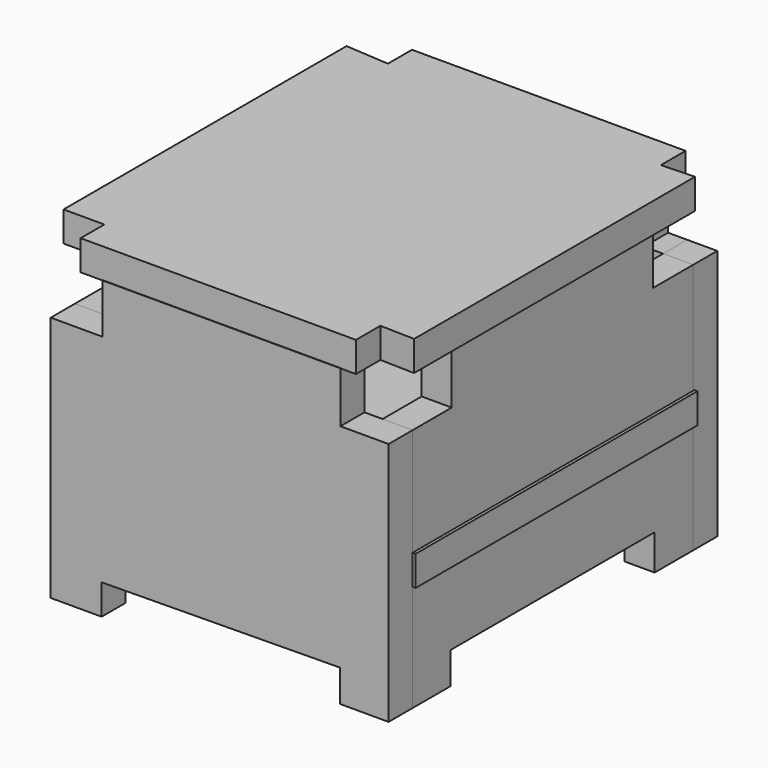
from build123d import *

# Parameters (mm, degrees)
F1_DEPTH  = 12
F3_DEPTH  = 12
F5_DEPTH  = 12
F6_DEPTH  = 12
F8_DEPTH  = 12
F9_DEPTH  = 12
F11_DEPTH = 12
F12_W     = 102.175297
F12_H     = 12
F13_DEPTH = 12


with BuildPart() as f1:
    # F0 (on Front) → F1 (new body)
    with BuildSketch(Plane.XZ):
        Polygon((-40.960394, 43.595516), (-40.960394, -54.856028), (-20.657198, -54.856028), (-20.657198, -42.756835), (74.503601, -41.788211), (74.503601, -54.560725), (93.829302, -54.560725), (93.829302, 43.038404), (74.608948, 43.038404), (74.608948, 63.372989), (-20.378642, 63.372989), (-20.378642, 43.595516), align=None)
    extrude(amount=F1_DEPTH)


with BuildPart() as f3:
    # F2 (on face) → F3 (new body)
    with BuildSketch(Plane.YZ.offset(93.829302)):
        Polygon((19.490086, 43.038404), (0, 43.038404), (0, -54.560725), (18.975705, -54.560725), (18.975705, -41.87429), (120.662093, -41.87429), (120.662093, -56.044541), (139.90967, -56.044541), (139.90967, 44.238716), (119.893558, 44.238716), (119.893558, 63.856304), (19.490086, 63.856304), align=None)
    extrude(amount=-F3_DEPTH)



with BuildPart() as f5:
    # F4 (on face) → F5 (new body)
    with BuildSketch(Plane(origin=(-40.960394, 0, 0), x_dir=(0, -1, 0), z_dir=(-1, 0, 0))):
        Polygon((0, -54.856028), (0, 43.595516), (-24.298657, 43.595516), (-24.298657, 61.788741), (-124.772109, 61.788741), (-124.772109, 41.72213), (-145.474121, 41.72213), (-145.474121, -57.513867), (-124.212138, -57.513867), (-124.212138, -42.453248), (-19.374812, -42.453248), (-19.374812, -55.44664), align=None)
    extrude(amount=-F5_DEPTH)


with BuildPart() as f6:
    # F0 (on Front) → F6 (new body)
    with BuildSketch(Plane.XZ):
        Polygon((-40.960394, 43.595516), (-40.960394, -54.856028), (-20.657198, -54.856028), (-20.657198, -42.756835), (74.503601, -41.788211), (74.503601, -54.560725), (93.829302, -54.560725), (93.829302, 43.038404), (74.608948, 43.038404), (74.608948, 63.372989), (-20.378642, 63.372989), (-20.378642, 43.595516), align=None)
    extrude(amount=F6_DEPTH)


with BuildPart() as f3_1:
    add(f3.part)

    add(f5.part)  # F8 merges F5
    # F7 (on face) → F8 (join)
    with BuildSketch(Plane(origin=(0, 139.90967, 0), x_dir=(-1, 0, 0), z_dir=(0, 1, 0))):
        Polygon((-74.208297, 44.238716), (-81.829302, 44.238716), (-81.829302, -41.567333), (19.993784, -41.567333), (19.993784, -59.285596), (41.846298, -59.285596), (41.846298, 44.070918), (27.967, 44.070918), (27.967, 63.265696), (-74.208297, 63.265696), align=None)
    extrude(amount=F8_DEPTH)


with BuildPart() as f9:
    # F7 (on face) → F9 (new body)
    with BuildSketch(Plane(origin=(0, 139.90967, 0), x_dir=(-1, 0, 0), z_dir=(0, 1, 0))):
        Polygon((-81.829302, 44.238716), (-93.829302, 44.238716), (-93.829302, -56.044541), (-81.829302, -56.044541), (-81.829302, -41.567333), align=None)
    extrude(amount=F9_DEPTH)


with BuildPart() as f11:
    # F10 (on Top) → F11 (new body)
    with BuildSketch(Plane.XY):
        Polygon((82.212083, 153.052658), (-29.122176, 153.315097), (-29.122176, 139.087111), (-41.825727, 139.087111), (-41.825727, 0), (-28.105892, 0), (-28.105892, -11.756198), (82.643062, -11.756198), (82.643062, 0), (95.030926, 0), (95.030926, 140.482232), (82.212083, 140.482232), align=None)
    extrude(amount=-F11_DEPTH)


with BuildPart() as f13:
    # F12 (on face) → F13 (new body)
    with BuildSketch(Plane.XY.offset(63.265696)):
        Polygon((74.208297, 139.90967), (-27.967, 139.90967), (-45.440353, 141.119689), (-45.440353, 0), (-29.16773, 0), (-29.16773, -11.831072), (80.672473, -11.831072), (80.672473, 0.364338), (94.402492, 0), (94.402492, 140.1034), (81.18099, 139.595255), (81.18099, 151.90967), (74.208297, 151.90967), align=None)
        with Locations((23.120649, 145.90967)):
            Rectangle(F12_W, F12_H)
    extrude(amount=F13_DEPTH)


solid = Compound([f1.part, f6.part, f3_1.part, f9.part, f11.part, f13.part])
